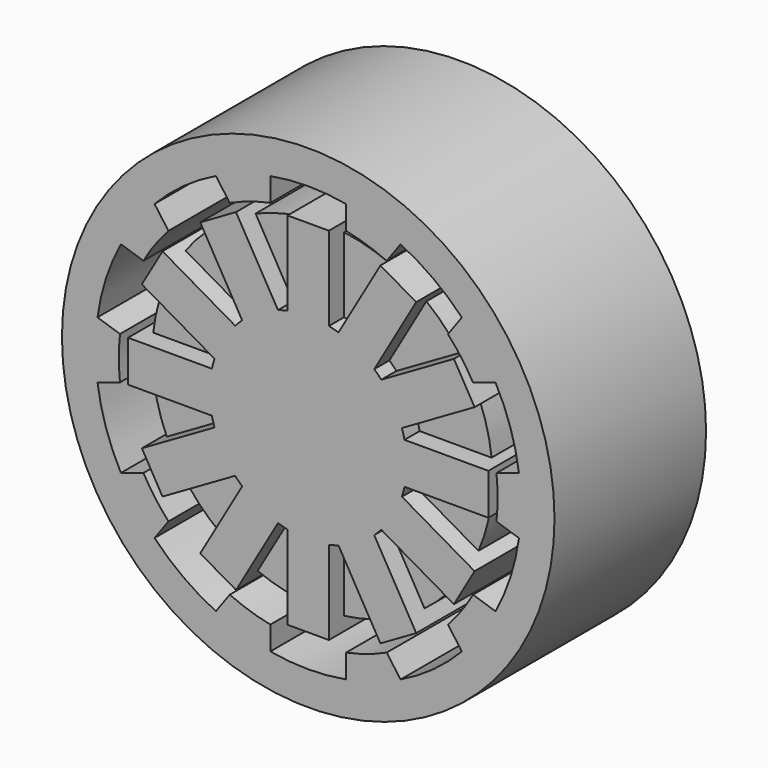
from build123d import *

# Parameters (mm, degrees)
F2_DEPTH = 25
F0_R     = 65
F3_DEPTH = 25
F1_R     = 44.916046
F4_DEPTH = 20


with BuildPart() as f2:
    # F0 (on Front) → F2 (new body, symmetric)
    with BuildSketch(Plane.XZ):
        with BuildLine():
            Line((-115.507347, 32.423485), (-120.961553, 32.423485))
            Line((-120.961553, 32.423485), (-126.415759, 32.423485))
            Line((-126.415759, 32.423485), (-126.415759, 10.281243))
            ThreePointArc((-126.415759, 10.281243), (-127.688091, 9.97444), (-128.943364, 9.603973))
            Line((-128.943364, 9.603973), (-140.014485, 28.779717))
            Line((-140.014485, 28.779717), (-144.737966, 26.052614))
            Line((-144.737966, 26.052614), (-149.461447, 23.325511))
            Line((-149.461447, 23.325511), (-138.390326, 4.149767))
            ThreePointArc((-138.390326, 4.149767), (-139.338796, 3.247902), (-140.240661, 2.299432))
            Line((-140.240661, 2.299432), (-159.416405, 13.370553))
            Line((-159.416405, 13.370553), (-162.143508, 8.647072))
            Line((-162.143508, 8.647072), (-164.870611, 3.923591))
            Line((-164.870611, 3.923591), (-145.694867, -7.14753))
            ThreePointArc((-145.694867, -7.14753), (-146.065334, -8.402803), (-146.372137, -9.675135))
            Line((-146.372137, -9.675135), (-168.514379, -9.675135))
            Line((-168.514379, -9.675135), (-168.514379, -15.129341))
            Line((-168.514379, -15.129341), (-168.514379, -20.583547))
            Line((-168.514379, -20.583547), (-146.372137, -20.583547))
            ThreePointArc((-146.372137, -20.583547), (-146.065334, -21.855879), (-145.694867, -23.111152))
            Line((-145.694867, -23.111152), (-164.870611, -34.182273))
            Line((-164.870611, -34.182273), (-162.143508, -38.905754))
            Line((-162.143508, -38.905754), (-159.416405, -43.629235))
            Line((-159.416405, -43.629235), (-140.240661, -32.558114))
            ThreePointArc((-140.240661, -32.558114), (-139.338796, -33.506584), (-138.390326, -34.408449))
            Line((-138.390326, -34.408449), (-149.461447, -53.584193))
            Line((-149.461447, -53.584193), (-144.737966, -56.311296))
            Line((-144.737966, -56.311296), (-140.014485, -59.038399))
            Line((-140.014485, -59.038399), (-128.943364, -39.862655))
            ThreePointArc((-128.943364, -39.862655), (-127.688091, -40.233122), (-126.415759, -40.539925))
            Line((-126.415759, -40.539925), (-126.415759, -62.682167))
            Line((-126.415759, -62.682167), (-120.961553, -62.682167))
            Line((-120.961553, -62.682167), (-115.507347, -62.682167))
            Line((-115.507347, -62.682167), (-115.507347, -40.539925))
            ThreePointArc((-115.507347, -40.539925), (-114.235015, -40.233122), (-112.979742, -39.862655))
            Line((-112.979742, -39.862655), (-101.908621, -59.038399))
            Line((-101.908621, -59.038399), (-97.18514, -56.311296))
            Line((-97.18514, -56.311296), (-92.461659, -53.584193))
            Line((-92.461659, -53.584193), (-103.53278, -34.408449))
            ThreePointArc((-103.53278, -34.408449), (-102.58431, -33.506584), (-101.682445, -32.558114))
            Line((-101.682445, -32.558114), (-82.506701, -43.629235))
            Line((-82.506701, -43.629235), (-79.779598, -38.905754))
            Line((-79.779598, -38.905754), (-77.052495, -34.182273))
            Line((-77.052495, -34.182273), (-96.228239, -23.111152))
            ThreePointArc((-96.228239, -23.111152), (-95.857772, -21.855879), (-95.550969, -20.583547))
            Line((-95.550969, -20.583547), (-73.408727, -20.583547))
            Line((-73.408727, -20.583547), (-73.408727, -15.129341))
            Line((-73.408727, -15.129341), (-73.408727, -9.675135))
            Line((-73.408727, -9.675135), (-95.550969, -9.675135))
            ThreePointArc((-95.550969, -9.675135), (-95.857772, -8.402803), (-96.228239, -7.14753))
            Line((-96.228239, -7.14753), (-77.052495, 3.923591))
            Line((-77.052495, 3.923591), (-79.779598, 8.647072))
            Line((-79.779598, 8.647072), (-82.506701, 13.370553))
            Line((-82.506701, 13.370553), (-101.682445, 2.299432))
            ThreePointArc((-101.682445, 2.299432), (-102.58431, 3.247902), (-103.53278, 4.149767))
            Line((-103.53278, 4.149767), (-92.461659, 23.325511))
            Line((-92.461659, 23.325511), (-97.18514, 26.052614))
            Line((-97.18514, 26.052614), (-101.908621, 28.779717))
            Line((-101.908621, 28.779717), (-112.979742, 9.603973))
            ThreePointArc((-112.979742, 9.603973), (-114.235015, 9.97444), (-115.507347, 10.281243))
            Line((-115.507347, 10.281243), (-115.507347, 32.423485))
        make_face()
    extrude(amount=F2_DEPTH, both=True)

    # F1 (on Front) → F4 (join, symmetric)
    with BuildSketch(Plane.XZ):
        with Locations((-121.217057, -14.525875)):
            Circle(F1_R)
    extrude(amount=F4_DEPTH, both=True)


with BuildPart() as f3:
    # F0 (on Front) → F3 (new body, symmetric)
    with BuildSketch(Plane.XZ):
        with Locations((-120.961553, -15.129341)):
            Circle(F0_R)
        with BuildLine():
            Line((-130.961553, 33.860454), (-130.961553, 40.103608))
            ThreePointArc((-130.961553, 40.103608), (-120.961553, 41.001566), (-110.961553, 40.103608))
            Line((-110.961553, 40.103608), (-110.961553, 33.860454))
            ThreePointArc((-110.961553, 33.860454), (-105.510703, 32.423485), (-100.256244, 30.382088))
            Line((-100.256244, 30.382088), (-96.58661, 35.432906))
            ThreePointArc((-96.58661, 35.432906), (-87.968634, 30.281516), (-80.40627, 23.677201))
            Line((-80.40627, 23.677201), (-84.075904, 18.626383))
            ThreePointArc((-84.075904, 18.626383), (-80.510703, 14.259922), (-77.45966, 9.519904))
            Line((-77.45966, 9.519904), (-71.522067, 11.449144))
            ThreePointArc((-71.522067, 11.449144), (-67.577889, 2.216063), (-65.341727, -7.571986))
            Line((-65.341727, -7.571986), (-71.27932, -9.501227))
            ThreePointArc((-71.27932, -9.501227), (-70.961553, -15.129341), (-71.27932, -20.757455))
            Line((-71.27932, -20.757455), (-65.341727, -22.686696))
            ThreePointArc((-65.341727, -22.686696), (-67.577889, -32.474745), (-71.522067, -41.707826))
            Line((-71.522067, -41.707826), (-77.45966, -39.778585))
            ThreePointArc((-77.45966, -39.778585), (-80.510703, -44.518603), (-84.075904, -48.885065))
            Line((-84.075904, -48.885065), (-80.40627, -53.935883))
            ThreePointArc((-80.40627, -53.935883), (-87.968634, -60.540198), (-96.58661, -65.691588))
            Line((-96.58661, -65.691588), (-100.256244, -60.64077))
            ThreePointArc((-100.256244, -60.64077), (-105.510703, -62.682167), (-110.961553, -64.119136))
            Line((-110.961553, -64.119136), (-110.961553, -70.36229))
            ThreePointArc((-110.961553, -70.36229), (-120.961553, -71.260247), (-130.961553, -70.36229))
            Line((-130.961553, -70.36229), (-130.961553, -64.119136))
            ThreePointArc((-130.961553, -64.119136), (-136.412403, -62.682167), (-141.666862, -60.64077))
            Line((-141.666862, -60.64077), (-145.336496, -65.691588))
            ThreePointArc((-145.336496, -65.691588), (-153.954472, -60.540198), (-161.516836, -53.935883))
            Line((-161.516836, -53.935883), (-157.847202, -48.885065))
            ThreePointArc((-157.847202, -48.885065), (-161.412403, -44.518603), (-164.463447, -39.778585))
            Line((-164.463447, -39.778585), (-170.401039, -41.707826))
            ThreePointArc((-170.401039, -41.707826), (-174.345218, -32.474745), (-176.581379, -22.686696))
            Line((-176.581379, -22.686696), (-170.643787, -20.757455))
            ThreePointArc((-170.643787, -20.757455), (-170.961553, -15.129341), (-170.643787, -9.501227))
            Line((-170.643787, -9.501227), (-176.581379, -7.571986))
            ThreePointArc((-176.581379, -7.571986), (-174.345218, 2.216063), (-170.401039, 11.449144))
            Line((-170.401039, 11.449144), (-164.463447, 9.519904))
            ThreePointArc((-164.463447, 9.519904), (-161.412403, 14.259922), (-157.847202, 18.626383))
            Line((-157.847202, 18.626383), (-161.516836, 23.677201))
            ThreePointArc((-161.516836, 23.677201), (-153.954472, 30.281516), (-145.336496, 35.432906))
            Line((-145.336496, 35.432906), (-141.666862, 30.382088))
            ThreePointArc((-141.666862, 30.382088), (-136.412403, 32.423485), (-130.961553, 33.860454))
        make_face(mode=Mode.SUBTRACT)
    extrude(amount=F3_DEPTH, both=True)


solid = Compound([f2.part, f3.part])
